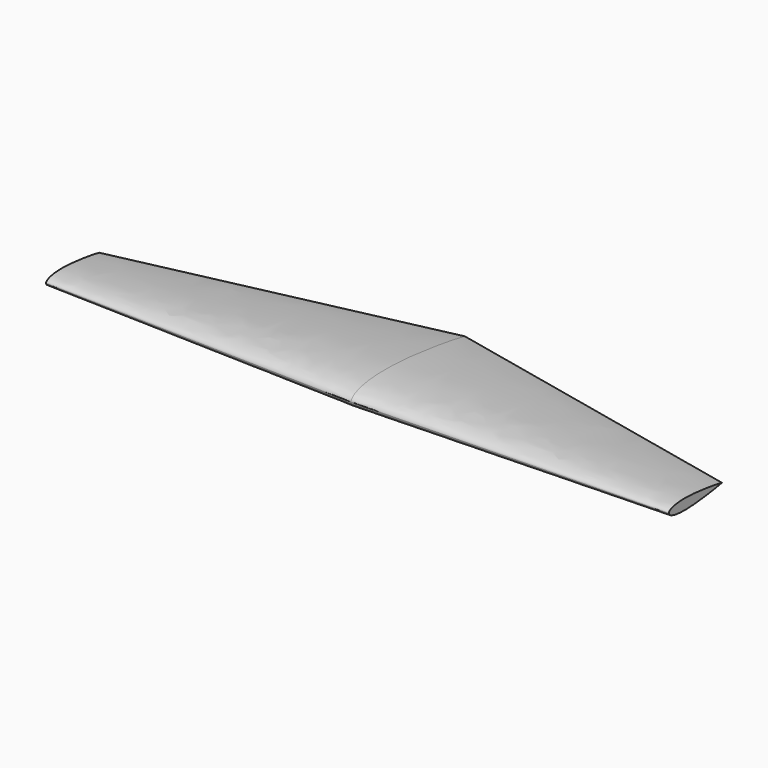
from build123d import *


with BuildPart() as f5:
    # F2 (on Right) → F5 section 0
    with BuildSketch(Plane.YZ):
        with BuildLine():
            add(Edge.make_bspline(
                [(-794.310620105, -0.2086426975), (-794.2066084309, 19.7710686745), (-765.1886296508, 53.9607212546), (-723.4645327647, 73.1535368824), (-678.9032788369, 91.8385211821), (-625.2604842413, 105.617990986), (-530.9353899022, 124.1636773717), (-351.9682943942, 137.0446309852), (-98.2023075867, 133.8847117886), (179.6141664401, 109.1006923132), (487.3654062401, 72.159541435), (739.397643735, 32.4271601469), (837.0471957213, 15.4339355708), (899.869379895, -0.2086426975)],
                knots=[0, 0, 0, 0, 0.0585827428, 0.1109911319, 0.1631794757, 0.219149731, 0.2926850066, 0.3948069769, 0.5170193116, 0.6456486947, 0.7816373494, 0.9016070312, 1, 1, 1, 1], degree=3))
            add(Edge.make_bspline(
                [(-794.310620105, -0.2086426975), (-794.2066084309, -20.1883540695), (-765.1886296508, -54.3780066497), (-723.4645327647, -73.5708222775), (-678.9032788369, -92.2558065772), (-625.2604842413, -106.035276381), (-530.9353899022, -124.5809627668), (-351.9682943942, -137.4619163803), (-98.2023075867, -134.3019971837), (179.6141664401, -109.5179777083), (487.3654062401, -72.5768268301), (739.397643735, -32.844445542), (837.0471957213, -15.8512209659), (899.869379895, -0.2086426975)],
                knots=[0, 0, 0, 0, 0.0585827428, 0.1109911319, 0.1631794757, 0.219149731, 0.2926850066, 0.3948069769, 0.5170193116, 0.6456486947, 0.7816373494, 0.9016070312, 1, 1, 1, 1], degree=3))
        make_face()
    # F4 (on offset) → F5 section 1
    with BuildSketch(Plane.YZ.offset(3708.4)):
        with BuildLine():
            add(Edge.make_bspline(
                [(-699.4745135307, 0), (-699.664413929, 2.2437053267), (-699.1002572944, 12.4036769984), (-675.4858159827, 32.339563353), (-631.9994501148, 47.1380764165), (-579.8459551114, 57.2792850819), (-493.1183929109, 64.1990171166), (-376.4798150955, 62.3606810661), (-244.2700347073, 50.1363797055), (-87.6812795978, 31.5007918214), (39.9529329203, 11.361724099), (76.7627668152, 3.1407130987), (90.8254906535, 0)],
                knots=[0, 0, 0, 0, 0.0372945779, 0.1003184508, 0.1797577564, 0.2648694018, 0.3733833222, 0.5001414663, 0.635848897, 0.7856786568, 0.9181213125, 1, 1, 1, 1], degree=3))
            add(Edge.make_bspline(
                [(-699.4745135307, 0), (-699.664413929, -2.2437053267), (-699.1002572944, -12.4036769984), (-675.4858159827, -32.339563353), (-631.9994501148, -47.1380764165), (-579.8459551114, -57.2792850819), (-493.1183929109, -64.1990171166), (-376.4798150955, -62.3606810661), (-244.2700347073, -50.1363797055), (-87.6812795978, -31.5007918214), (39.9529329203, -11.361724099), (76.7627668152, -3.1407130987), (90.8254906535, 0)],
                knots=[0, 0, 0, 0, 0.0372945779, 0.1003184508, 0.1797577564, 0.2648694018, 0.3733833222, 0.5001414663, 0.635848897, 0.7856786568, 0.9181213125, 1, 1, 1, 1], degree=3))
        make_face()
    loft()

    # F6: F5 across plane


with BuildPart() as f5_1:
    add(f5.part)
    add(f5.part.mirror(Plane.YZ))


solid = f5_1.part
